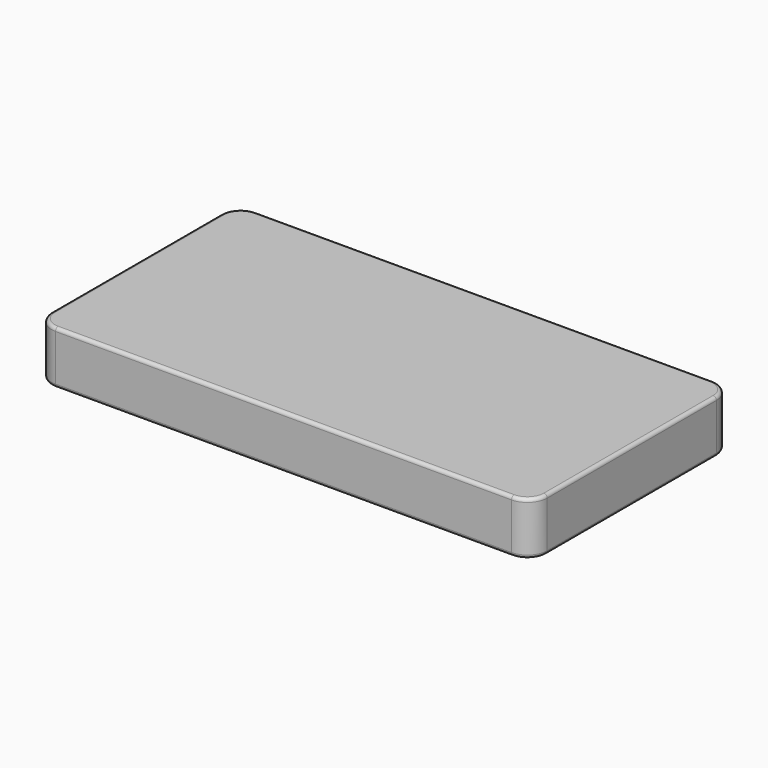
from build123d import *

# Parameters (mm, degrees)
F0_W     = 1905
F0_H     = 965.2
F1_DEPTH = 203.2
F2_R     = 76.2
F3_R     = 12.7


with BuildPart() as f1:
    # F0 (on Top) → F1 (new body)
    with BuildSketch(Plane.XY):
        Rectangle(F0_W, F0_H)
    extrude(amount=F1_DEPTH)

    # F2
    f2_edges = [f1.edges().sort_by_distance(p)[0] for p in [
        (-952.5, -482.6, 101.6),
        (952.5, -482.6, 101.6),
        (952.5, 482.6, 101.6),
        (-952.5, 482.6, 101.6),
    ]]
    fillet(f2_edges, radius=F2_R)

    # F3
    f3_edges = [f1.edges().sort_by_distance(p)[0] for p in [
        (0, -482.6, 203.2),
        (0, -482.6, 0),
    ]]
    fillet(f3_edges, radius=F3_R)


solid = f1.part
